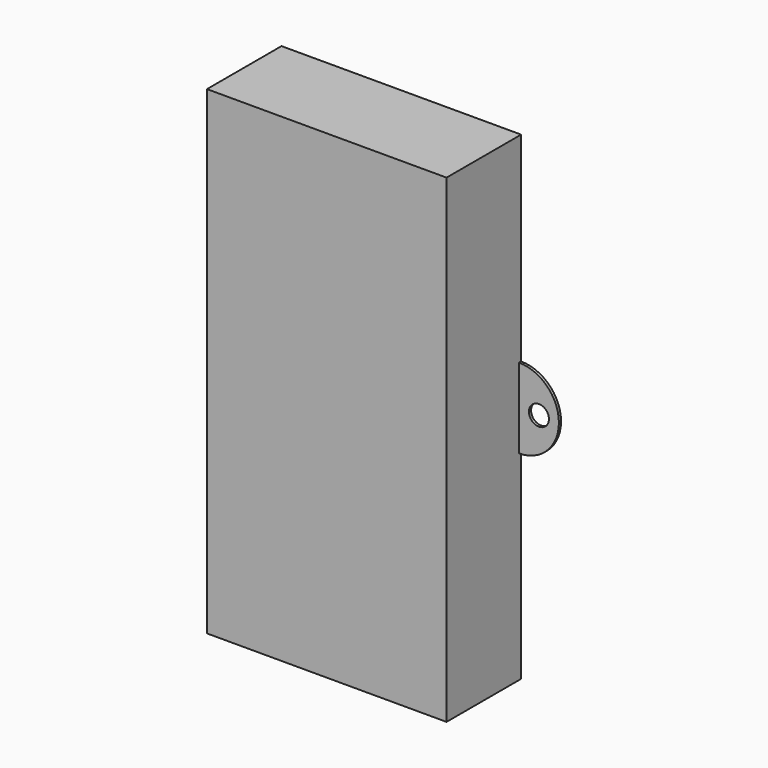
from build123d import *

# Parameters (mm, degrees)
F0_W     = 90
F0_H     = 180
F1_DEPTH = 35
F2_T     = -1
F3_R     = 3.75
F4_DEPTH = 1
F5_R     = 2
F6_DEPTH = 35


with BuildPart() as f1:
    # F0 (on Front) → F1 (new body)
    with BuildSketch(Plane.XZ):
        Rectangle(F0_W, F0_H)
    extrude(amount=F1_DEPTH)

    # F2
    f2_openings = [f1.faces().sort_by_distance(p)[0] for p in [
        (0, 0, 0),
    ]]
    offset(amount=F2_T, openings=f2_openings)

    # F3 (on Front) → F4 (join)
    with BuildSketch(Plane.XZ):
        with BuildLine():
            ThreePointArc((45, -15), (60, 0), (45, 15))
            Line((45, 15), (45, -15))
        make_face()
        with Locations((52.5, 0)):
            Circle(F3_R, mode=Mode.SUBTRACT)
    extrude(amount=F4_DEPTH)

    # F5 (on Top) → F6 (join)
    with BuildSketch(Plane.XY):
        with Locations((-47, 0)):
            Circle(F5_R)
    extrude(amount=-F6_DEPTH)


solid = f1.part
